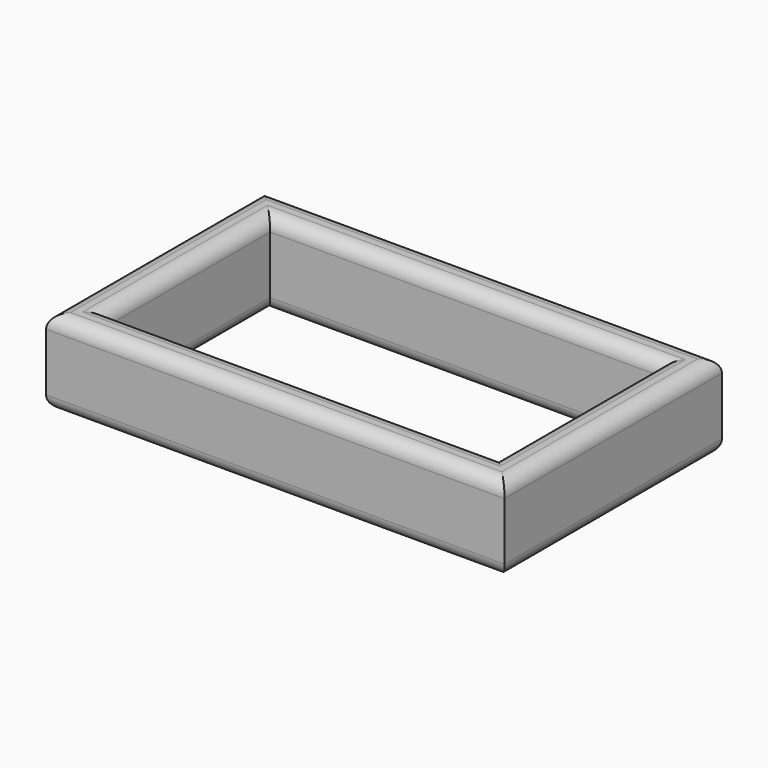
from build123d import *

# Parameters (mm, degrees)
F0_W     = 27
F0_H     = 16
F0_W_2   = 23
F0_H_2   = 12
F1_DEPTH = 5
F2_R     = 0.8


with BuildPart() as f1:
    # F0 (on Top) → F1 (new body)
    with BuildSketch(Plane.XY):
        Rectangle(F0_W, F0_H)
        Rectangle(F0_W_2, F0_H_2, mode=Mode.SUBTRACT)
    extrude(amount=F1_DEPTH)

    # F2
    f2_edges = [f1.edges().sort_by_distance(p)[0] for p in [
        (0, 8, 5),
        (13.5, 0, 5),
        (0, -8, 5),
        (-13.5, 0, 5),
        (-11.5, 0, 5),
        (0, 6, 5),
        (0, -6, 5),
        (11.5, 0, 5),
        (0, -8, 0),
        (0, -6, 0),
        (0, 6, 0),
        (0, 8, 0),
        (13.5, 0, 0),
        (11.5, 0, 0),
        (-13.5, 0, 0),
        (-11.5, 0, 0),
    ]]
    fillet(f2_edges, radius=F2_R)


solid = f1.part
